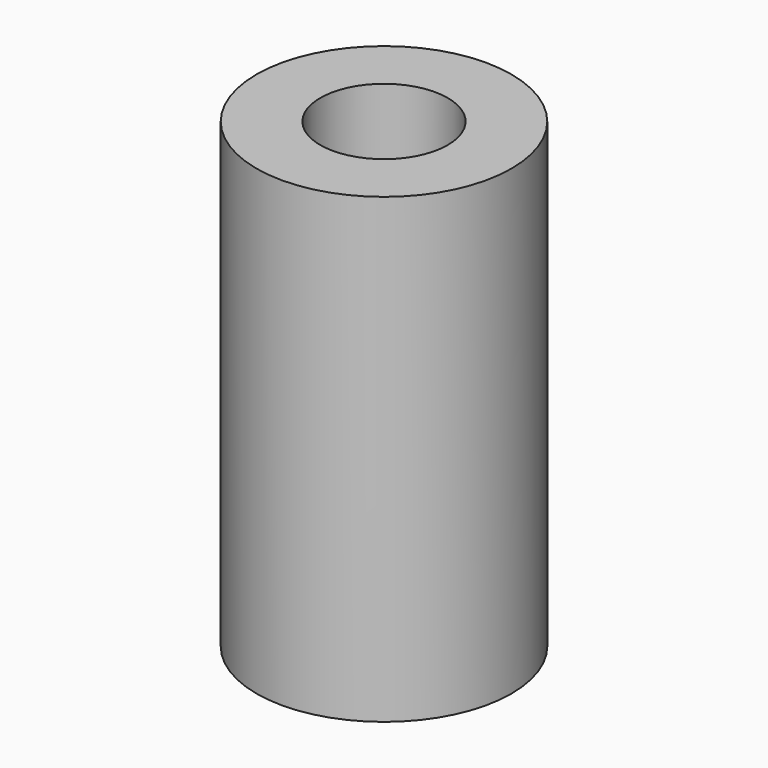
from build123d import *

# Parameters (mm, degrees)
CYLINDER351_R     = 2
CYLINDER351_DEPTH = 14.5
CYLINDER352_R     = 4
CYLINDER352_DEPTH = 14.5


with BuildPart() as cylinder351:
    # Cylinder351 → Cylinder351 (new body)
    with BuildSketch(Plane.XY):
        Circle(CYLINDER351_R)
    extrude(amount=CYLINDER351_DEPTH)


with BuildPart() as spacer2:
    # Cylinder352 → Cylinder352 (new body)
    with BuildSketch(Plane.XY):
        Circle(CYLINDER352_R)
    extrude(amount=CYLINDER352_DEPTH)

    # Cut370: cut Cylinder351
    add(cylinder351.part, mode=Mode.SUBTRACT)


with BuildPart() as spacer2_1:
    # Cut370 placement: moved
    add(spacer2.part.moved(Location((-57, -27, 49))))


solid = spacer2_1.part
